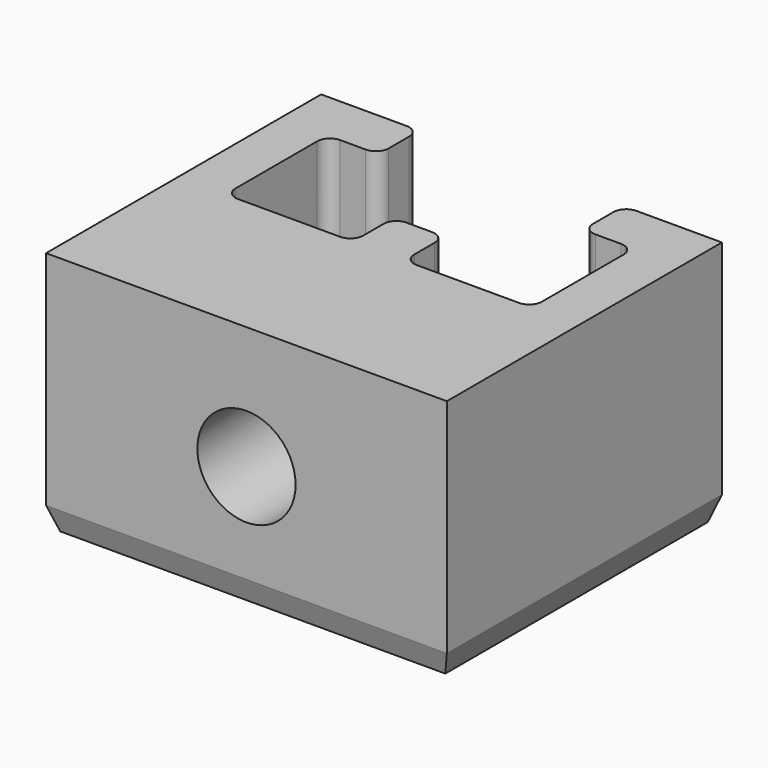
from build123d import *

# Parameters (mm, degrees)
F1_DEPTH  = 10
F2_R      = 0.65
F4_DEPTH  = 2.5
F5_W      = 20.4
F5_H      = 6
F6_DEPTH  = 10
F7_DEPTH  = 2.5
F8_R      = 2.5
F9_DEPTH  = 7.5
F10_R     = 3
F10_R_2   = 2.5
F11_DEPTH = 1.5
F12_SIZE2 = 1.2
F12_SIZE  = 0.4


with BuildPart() as f1:
    # F0 (on Top) → F1 (new body)
    with BuildSketch(Plane.XY):
        Polygon((0, 11.5), (0, 0), (20.4, 0), (20.4, 11.5), (15.4, 11.5), (15.4, 8.9), (18, 8.9), (18, 2.4), (11.5, 2.4), (11.5, 5), (8.9, 5), (8.9, 2.4), (2.4, 2.4), (2.4, 8.9), (5, 8.9), (5, 11.5), align=None)
    extrude(amount=F1_DEPTH)

    # F2
    f2_edges = [f1.edges().sort_by_distance(p)[0] for p in [
        (2.4, 8.9, 5),
        (2.4, 2.4, 5),
        (11.5, 2.4, 5),
        (8.9, 2.4, 5),
        (18, 2.4, 5),
        (18, 8.9, 5),
        (15.4, 8.9, 5),
        (15.4, 11.5, 5),
        (5, 8.9, 5),
        (5, 11.5, 5),
        (11.5, 5, 5),
        (8.9, 5, 5),
    ]]
    fillet(f2_edges, radius=F2_R)

    # F3 (on face) → F4 (join)
    with BuildSketch(Plane(origin=(0, 0, 0), x_dir=(1, 0, 0), z_dir=(0, 0, -1))):
        with BuildLine():
            ThreePointArc((5, -10.85), (4.8096194078, -11.3096194078), (4.35, -11.5))
            Line((4.35, -11.5), (16.05, -11.5))
            ThreePointArc((16.05, -11.5), (15.5903805922, -11.3096194078), (15.4, -10.85))
            Line((15.4, -10.85), (15.4, -9.55))
            ThreePointArc((15.4, -9.55), (15.5903805922, -9.0903805922), (16.05, -8.9))
            Line((16.05, -8.9), (17.35, -8.9))
            ThreePointArc((17.35, -8.9), (17.8096194078, -8.7096194078), (18, -8.25))
            Line((18, -8.25), (18, -3.05))
            ThreePointArc((18, -3.05), (17.8096194078, -2.5903805922), (17.35, -2.4))
            Line((17.35, -2.4), (12.15, -2.4))
            ThreePointArc((12.15, -2.4), (11.6903805922, -2.5903805922), (11.5, -3.05))
            Line((11.5, -3.05), (11.5, -4.35))
            ThreePointArc((11.5, -4.35), (11.3096194078, -4.8096194078), (10.85, -5))
            Line((10.85, -5), (9.55, -5))
            ThreePointArc((9.55, -5), (9.0903805922, -4.8096194078), (8.9, -4.35))
            Line((8.9, -4.35), (8.9, -3.05))
            ThreePointArc((8.9, -3.05), (8.7096194078, -2.5903805922), (8.25, -2.4))
            Line((8.25, -2.4), (3.05, -2.4))
            ThreePointArc((3.05, -2.4), (2.5903805922, -2.5903805922), (2.4, -3.05))
            Line((2.4, -3.05), (2.4, -8.25))
            ThreePointArc((2.4, -8.25), (2.5903805922, -8.7096194078), (3.05, -8.9))
            Line((3.05, -8.9), (4.35, -8.9))
            ThreePointArc((4.35, -8.9), (4.8096194078, -9.0903805922), (5, -9.55))
            Line((5, -9.55), (5, -10.85))
        make_face()
        with BuildLine():
            Line((20.4, 0), (0, 0))
            Line((0, 0), (0, -11.5))
            Line((0, -11.5), (4.35, -11.5))
            ThreePointArc((4.35, -11.5), (4.8096194078, -11.3096194078), (5, -10.85))
            Line((5, -10.85), (5, -9.55))
            ThreePointArc((5, -9.55), (4.8096194078, -9.0903805922), (4.35, -8.9))
            Line((4.35, -8.9), (3.05, -8.9))
            ThreePointArc((3.05, -8.9), (2.5903805922, -8.7096194078), (2.4, -8.25))
            Line((2.4, -8.25), (2.4, -3.05))
            ThreePointArc((2.4, -3.05), (2.5903805922, -2.5903805922), (3.05, -2.4))
            Line((3.05, -2.4), (8.25, -2.4))
            ThreePointArc((8.25, -2.4), (8.7096194078, -2.5903805922), (8.9, -3.05))
            Line((8.9, -3.05), (8.9, -4.35))
            ThreePointArc((8.9, -4.35), (9.0903805922, -4.8096194078), (9.55, -5))
            Line((9.55, -5), (10.85, -5))
            ThreePointArc((10.85, -5), (11.3096194078, -4.8096194078), (11.5, -4.35))
            Line((11.5, -4.35), (11.5, -3.05))
            ThreePointArc((11.5, -3.05), (11.6903805922, -2.5903805922), (12.15, -2.4))
            Line((12.15, -2.4), (17.35, -2.4))
            ThreePointArc((17.35, -2.4), (17.8096194078, -2.5903805922), (18, -3.05))
            Line((18, -3.05), (18, -8.25))
            ThreePointArc((18, -8.25), (17.8096194078, -8.7096194078), (17.35, -8.9))
            Line((17.35, -8.9), (16.05, -8.9))
            ThreePointArc((16.05, -8.9), (15.5903805922, -9.0903805922), (15.4, -9.55))
            Line((15.4, -9.55), (15.4, -10.85))
            ThreePointArc((15.4, -10.85), (15.5903805922, -11.3096194078), (16.05, -11.5))
            Line((16.05, -11.5), (20.4, -11.5))
            Line((20.4, -11.5), (20.4, 0))
        make_face()
    extrude(amount=F4_DEPTH)

    # F5 (on Top) → F6 (join, through all)
    with BuildSketch(Plane.XY):
        with Locations((10.2, -3)):
            Rectangle(F5_W, F5_H)
    extrude(amount=F6_DEPTH)

    # F7 (add, through all): a face of the model
    f7_faces = [f1.faces().sort_by_distance(p)[0] for p in [
        (10.2, -3, 0),
    ]]
    extrude(f7_faces, amount=F7_DEPTH)

    # F8 (on face) → F9 (cut)
    with BuildSketch(Plane.XZ.offset(6)):
        with Locations((10.2, 3.75)):
            Circle(F8_R)
    extrude(amount=-F9_DEPTH, mode=Mode.SUBTRACT)

    # F10 (on face) → F11 (cut)
    with BuildSketch(Plane.XZ.offset(-1.5)):
        with Locations((10.2, 3.75)):
            Circle(F10_R)
        with Locations((10.2, 3.75)):
            Circle(F10_R_2, mode=Mode.SUBTRACT)
    extrude(amount=F11_DEPTH, mode=Mode.SUBTRACT)

    # F12
    f12_edges = [f1.edges().sort_by_distance(p)[0] for p in [
        (20.4, 2.75, -2.5),
        (10.2, -6, -2.5),
        (0, 2.75, -2.5),
        (10.2, 11.5, -2.5),
    ]]
    f12_side = f1.faces().sort_by_distance((10.2, 2.75, -2.5))[0]
    chamfer(f12_edges, length=F12_SIZE, length2=F12_SIZE2, reference=f12_side)


solid = f1.part
